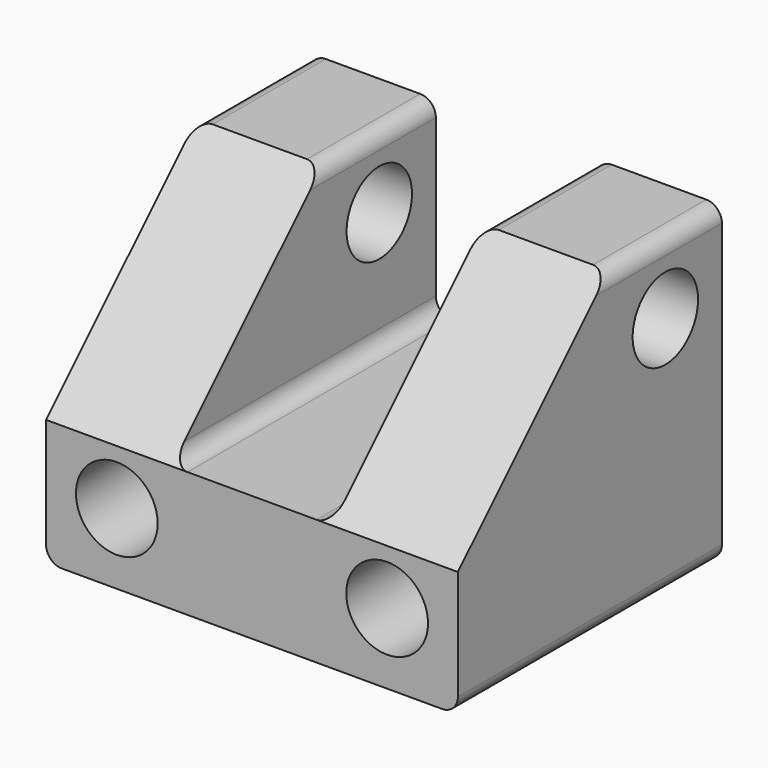
from build123d import *

# Parameters (mm, degrees)
F1_DEPTH      = 8.5
F1_DEPTH_BACK = 12.5
F2_R          = 2.6
F3_DEPTH      = 13
F3_DEPTH_BACK = 13
F4_R          = 2.6
F5_DEPTH      = 25
F5_DEPTH_BACK = 25
F6_SIZE       = 12
F7_R          = 1


with BuildPart() as f1:
    # F0 (on Front) → F1 (new body, two sides)
    with BuildSketch(Plane.XZ) as f1_sk:
        Polygon((4.5, 15.5), (-3.5, 15.5), (-3.5, 3.5), (-13.7, 3.5), (-13.7, 15.5), (-21.7, 15.5), (-21.7, -4.5), (4.5, -4.5), align=None)
    extrude(amount=F1_DEPTH)
    extrude(f1_sk.sketch, amount=-F1_DEPTH_BACK)

    # F2 (on Front) → F3 (cut, two sides)
    with BuildSketch(Plane.XZ) as f3_sk:
        Circle(F2_R)
        with Locations((-17.2, 0)):
            Circle(F2_R)
    extrude(amount=F3_DEPTH, mode=Mode.SUBTRACT)
    extrude(f3_sk.sketch, amount=-F3_DEPTH_BACK, mode=Mode.SUBTRACT)

    # F4 (on Right) → F5 (cut, two sides)
    with BuildSketch(Plane.YZ) as f5_sk:
        with Locations((8, 11)):
            Circle(F4_R)
    extrude(amount=-F5_DEPTH, mode=Mode.SUBTRACT)
    extrude(f5_sk.sketch, amount=F5_DEPTH_BACK, mode=Mode.SUBTRACT)

    # F6
    f6_edges = [f1.edges().sort_by_distance(p)[0] for p in [
        (-17.7, -8.5, 15.5),
        (0.5, -8.5, 15.5),
    ]]
    chamfer(f6_edges, length=F6_SIZE)

    # F7
    f7_edges = [f1.edges().sort_by_distance(p)[0] for p in [
        (4.5, 2, -4.5),
        (4.5, 8, 15.5),
        (-21.7, 2, -4.5),
        (-21.7, 8, 15.5),
        (-13.7, 8, 15.5),
        (-3.5, 2, 3.5),
        (-13.7, 2, 3.5),
        (-3.5, 8, 15.5),
    ]]
    fillet(f7_edges, radius=F7_R)


solid = f1.part
